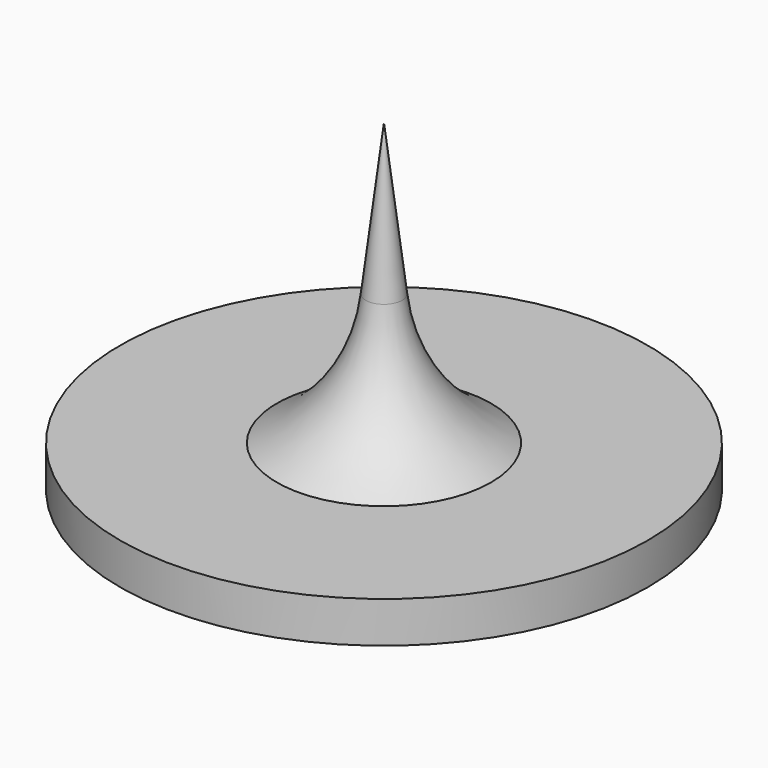
from build123d import *


with BuildPart() as f1:
    # F0 (on Front) → F1 (revolve)
    with BuildSketch(Plane.XZ):
        with BuildLine():
            Line((2.281257, 9.262393), (6.688829, 9.262393))
            Line((6.688829, 9.262393), (50.225012, 19.971125))
            Line((50.225012, 19.971125), (50.225012, 27.810142))
            Line((50.225012, 27.810142), (20.382326, 27.810142))
            ThreePointArc((20.382326, 27.810142), (8.786762, 38.191427), (3.455116, 52.813389))
            Line((3.455116, 52.813389), (0, 81.505734))
            Line((0, 81.505734), (0, 53.7535))
            Line((0, 53.7535), (0, 41.877699))
            Line((0, 41.877699), (15.9597, 25.270142))
            Line((15.9597, 25.270142), (45.145012, 25.270142))
            Line((45.145012, 25.270142), (45.145012, 21.460142))
            Line((45.145012, 21.460142), (0, 10.355681))
            Line((0, 10.355681), (0, 6.113881))
            Line((0, 6.113881), (2.281257, 9.262393))
        make_face()
    revolve(axis=Axis((0, 0, 47.815599), (0, 0, 1)))


solid = f1.part
